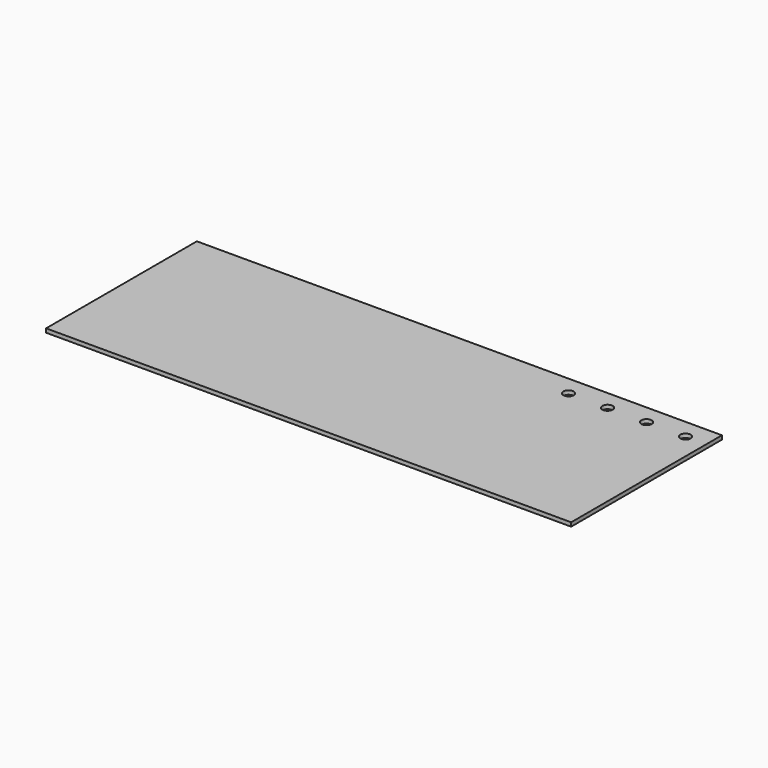
from build123d import *

# Parameters (mm, degrees)
F0_W     = 404
F0_H     = 145
F0_R     = 4
F1_DEPTH = 3


with BuildPart() as f1:
    # F0 (on Top) → F1 (new body)
    with BuildSketch(Plane.XY):
        with Locations((-2.410612, 5.791922)):
            Rectangle(F0_W, F0_H)
        with Locations((93.589388, 63.291922)):
            Circle(F0_R, mode=Mode.SUBTRACT)
        with Locations((123.589388, 63.291922)):
            Circle(F0_R, mode=Mode.SUBTRACT)
        with Locations((153.589388, 63.291922)):
            Circle(F0_R, mode=Mode.SUBTRACT)
        with Locations((183.589388, 63.291922)):
            Circle(F0_R, mode=Mode.SUBTRACT)
    extrude(amount=-F1_DEPTH)


solid = f1.part
